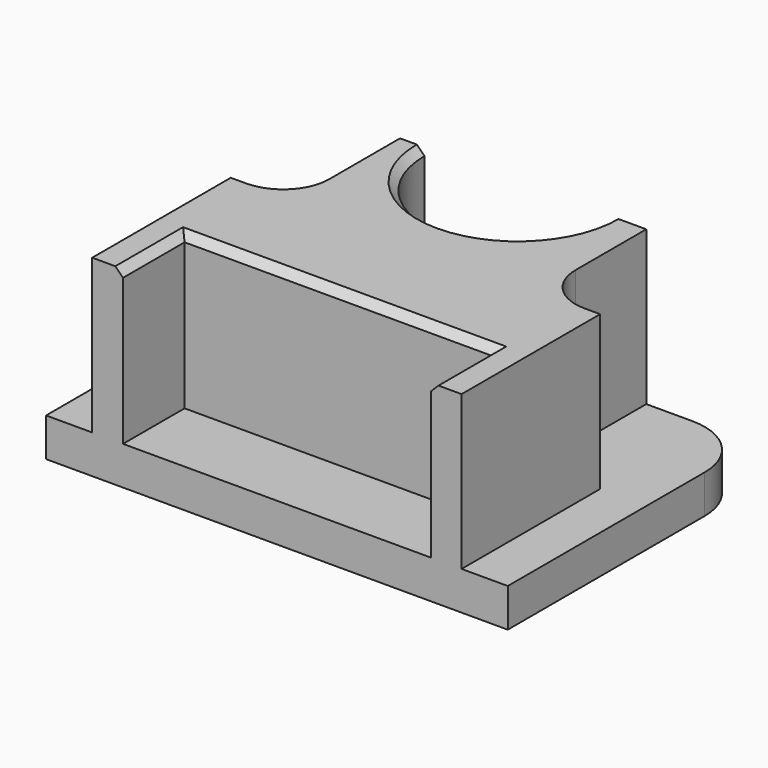
from build123d import *

# Parameters (mm, degrees)
F0_W     = 76.2
F0_H     = 50.8
F1_DEPTH = 6.35
F3_DEPTH = 25.4
F5_DEPTH = 31.75
F6_SIZE  = 1.27
F7_R     = 10.16
F8_SIZE  = 1.27
F9_R     = 7.62
F10_R    = 7.62


with BuildPart() as f1:
    # F0 (on Top) → F1 (new body)
    with BuildSketch(Plane.XY):
        Rectangle(F0_W, F0_H)
    extrude(amount=F1_DEPTH)

    # F2 (on face) → F3 (join)
    with BuildSketch(Plane.XY.offset(6.35)):
        Polygon((-25.4, -25.4), (-25.4, -12.7), (-25.4, 3.18004773), (-30.48, 3.18004773), (-30.48, -25.4), align=None)
        Polygon((30.48, 3.18004773), (25.4, 3.18004773), (25.4, -12.7), (25.4, -25.4), (30.48, -25.4), align=None)
        with BuildLine():
            Line((20.32, 3.18004773), (20.32, 25.4))
            Line((20.32, 25.4), (14.478, 25.4))
            ThreePointArc((14.478, 25.4), (-0.9019215927, 10.0200784073), (-16.2818431854, 25.4))
            Line((-16.2818431854, 25.4), (-20.32, 25.4))
            Line((-20.32, 25.4), (-20.32, 3.18004773))
            Line((-20.32, 3.18004773), (-25.4, 3.18004773))
            Line((-25.4, 3.18004773), (-25.4, -12.7))
            Line((-25.4, -12.7), (25.4, -12.7))
            Line((25.4, -12.7), (25.4, 3.18004773))
            Line((25.4, 3.18004773), (20.32, 3.18004773))
        make_face()
    extrude(amount=F3_DEPTH)

    # F4 (on face) → F5 (cut)
    with BuildSketch(Plane.XY.offset(31.75)):
        with BuildLine():
            Line((14.478, 25.4), (-16.2818431854, 25.4))
            ThreePointArc((-16.2818431854, 25.4), (-0.9019215927, 10.0200784073), (14.478, 25.4))
        make_face()
    extrude(amount=-F5_DEPTH, mode=Mode.SUBTRACT)

    # F6
    f6_edges = [f1.edges().sort_by_distance(p)[0] for p in [
        (0, -12.7, 31.75),
        (-25.4, -19.05, 31.75),
        (25.4, -19.05, 31.75),
    ]]
    chamfer(f6_edges, length=F6_SIZE)

    # F7
    f7_edges = [f1.edges().sort_by_distance(p)[0] for p in [
        (-38.1, 25.4, 3.175),
        (38.1, 25.4, 3.175),
    ]]
    fillet(f7_edges, radius=F7_R)

    # F8
    f8_edges = [f1.edges().sort_by_distance(p)[0] for p in [
        (-0.901922, 10.020078, 31.75),
    ]]
    chamfer(f8_edges, length=F8_SIZE)

    # F9
    f9_edges = [f1.edges().sort_by_distance(p)[0] for p in [
        (-20.32, 3.180048, 19.05),
    ]]
    fillet(f9_edges, radius=F9_R)

    # F10
    f10_edges = [f1.edges().sort_by_distance(p)[0] for p in [
        (20.32, 3.180048, 19.05),
    ]]
    fillet(f10_edges, radius=F10_R)


solid = f1.part
